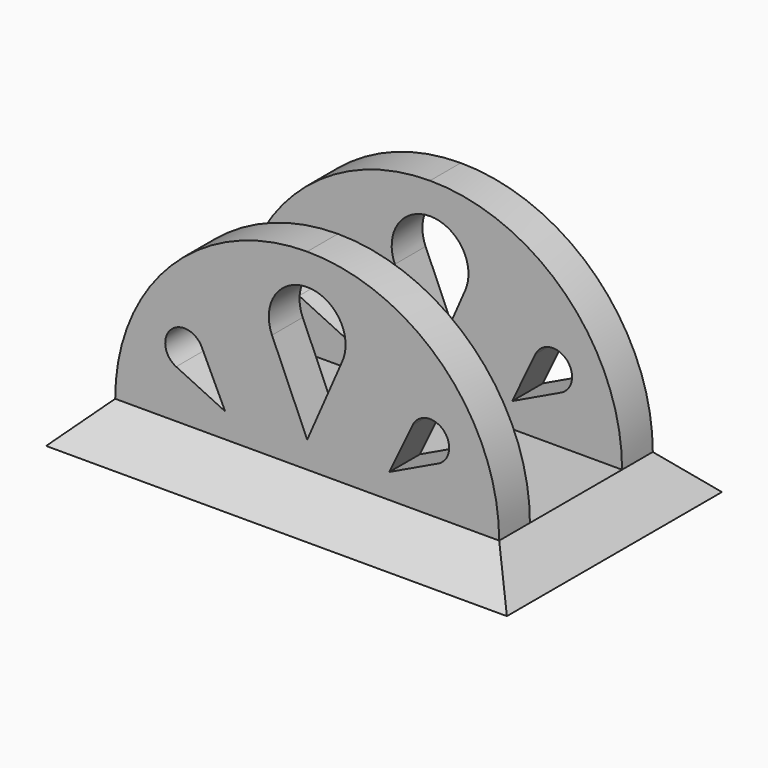
from build123d import *

# Parameters (mm, degrees)
F2_W     = 100
F2_H     = 50
F0_W     = 120
F0_H     = 70
F6_DEPTH = 10


with BuildPart() as f3:
    # F2 (on offset) → F3 section 0
    with BuildSketch(Plane.XY.offset(10)):
        Rectangle(F2_W, F2_H)
    # F0 (on Top) → F3 section 1
    with BuildSketch(Plane.XY):
        Rectangle(F0_W, F0_H)
    loft()

    # F5 (on offset) → F6 (join)
    with BuildSketch(Plane.XZ.offset(-25)):
        with BuildLine():
            Line((-50, 10), (50, 10))
            ThreePointArc((50, 10), (35.355339, 45.355339), (0, 60))
            ThreePointArc((0, 60), (-35.355339, 45.355339), (-50, 10))
        make_face()
        with BuildLine():
            Line((-27.4604, 29.182527), (-21.365643, 16.421104))
            Line((-21.365643, 16.421104), (-34.127067, 22.515861))
            ThreePointArc((-34.127067, 22.515861), (-35.507778, 30.563239), (-27.4604, 29.182527))
        make_face(mode=Mode.SUBTRACT)
        with BuildLine():
            ThreePointArc((-9.165151, 37.865514), (0, 51.865514), (9.165151, 37.865514))
            Line((9.165151, 37.865514), (0, 16.865514))
            Line((0, 16.865514), (-9.165151, 37.865514))
        make_face(mode=Mode.SUBTRACT)
        with BuildLine():
            ThreePointArc((27.4604, 29.182527), (35.507778, 30.563239), (34.127067, 22.515861))
            Line((34.127067, 22.515861), (21.365643, 16.421104))
            Line((21.365643, 16.421104), (27.4604, 29.182527))
        make_face(mode=Mode.SUBTRACT)
    extrude(amount=F6_DEPTH)

    # F7: F3 across plane


with BuildPart() as f3_1:
    add(f3.part)
    add(f3.part.mirror(Plane.XZ))


solid = f3_1.part
